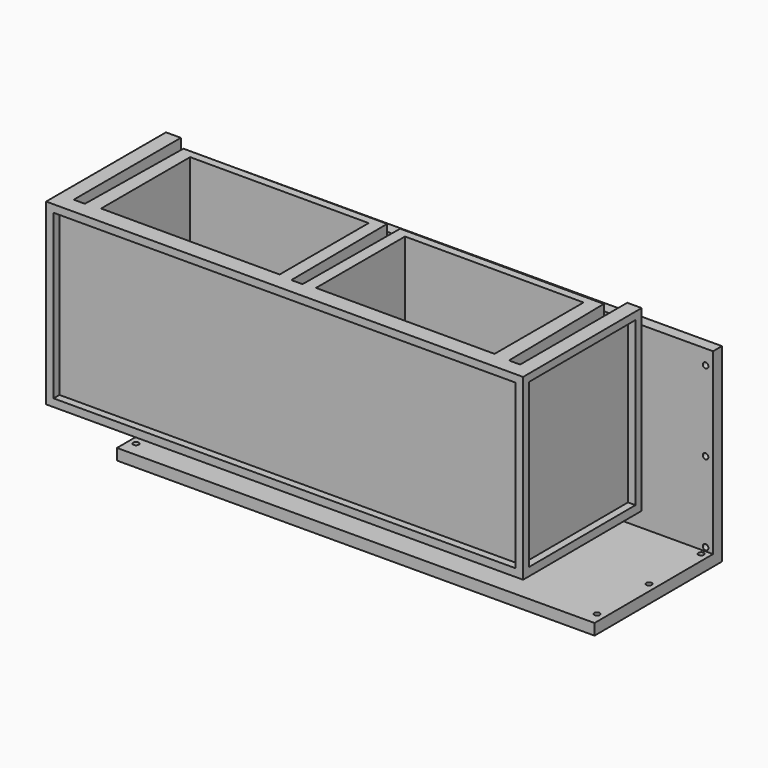
from build123d import *

# Parameters (mm, degrees)
F1_DEPTH  = 609.6
F2_W      = 609.6
F2_H      = 379.9170106649
F3_DEPTH  = 609.6
F4_W      = 609.6
F4_H      = 379.91796
F5_DEPTH  = 609.6
F7_DEPTH  = 609.6
F8_W      = 38.1
F8_H      = 609.6
F9_DEPTH  = 1625.6
F12_DEPTH = 25.4
F14_DEPTH = 25.4
F16_DEPTH = 25.4
F18_D     = 19.05
F18_DEPTH = 76.2
F18_TIP   = 5.7231973962
F20_D     = 19.05
F20_DEPTH = 76.2
F20_TIP   = 5.7231973962
F22_DEPTH = 25.4
F24_D     = 19.05
F24_DEPTH = 76.2
F24_TIP   = 5.7231973962
F26_DEPTH = 25.4


with BuildPart() as f1:
    # F0 (on Top) → F1 (new body)
    with BuildSketch(Plane.XY):
        Polygon((84.6492510451, -590.8656727771), (82.5916901231, -32.0694608688), (-1540.9447381875, -35.7017337799), (-1540.9447381875, -594.5017337799), align=None)
        Polygon((-1490.1507489549, -540.0694608688), (-1490.1507489549, -82.8694608688), (33.8492510451, -82.8694608688), (33.8492510451, -540.0694608688), (-4.2507489549, -540.0694608688), (-10.6066635132, -127.3194608688), (-705.9316635132, -127.3194608688), (-709.1066635132, -540.0694608688), (-747.2066635132, -540.0694608688), (-750.3757489549, -127.3194608688), (-1445.7007489549, -127.3194608688), (-1452.0507489549, -540.0694608688), align=None, mode=Mode.SUBTRACT)
    extrude(amount=-F1_DEPTH)

    # F2 (on face) → F3 (cut)
    with BuildSketch(Plane.XY):
        with Locations((-1096.4615680695, -344.4945290685)):
            Rectangle(F2_W, F2_H)
    extrude(amount=-F3_DEPTH, mode=Mode.SUBTRACT)

    # F4 (on face) → F5 (cut)
    with BuildSketch(Plane.XY):
        with Locations((-362.7812602043, -344.495003736)):
            Rectangle(F4_W, F4_H)
    extrude(amount=-F5_DEPTH, mode=Mode.SUBTRACT)

    # F6 (on face) → F7 (cut)
    with BuildSketch(Plane.XY):
        Polygon((-1540.9447381875, -35.7017337799), (-1540.9447381875, -82.8694608688), (82.778742384, -82.8694608688), (82.5916901231, -32.0694608688), align=None)
    extrude(amount=-F7_DEPTH, mode=Mode.SUBTRACT)

    # F11 (on face) → F12 (cut)
    with BuildSketch(Plane(origin=(1.3220406475, -591.0520556145, 0), x_dir=(0.9999974985, 0.0022367528, 0), z_dir=(0.0022367528, -0.9999974985, 0))):
        Polygon((-1465.8825397491, -25.4), (-1516.8706368785, -25.4), (-1516.8706368785, -290.197044611), (-1516.8706368785, -583.3304524422), (57.752572, -583.3304524422), (57.752572, -25.4), align=None)
    extrude(amount=-F12_DEPTH, mode=Mode.SUBTRACT)

    # F13 (on face) → F14 (cut)
    with BuildSketch(Plane(origin=(82.4724879938, 0.3036745146, 0), x_dir=(-0.0036821062, 0.999993221, 0), z_dir=(0.999993221, 0.0036821062, 0))):
        Polygon((-337.1735270288, -25.4), (-565.7733548417, -25.4), (-565.7733548417, -58.3401173353), (-565.7733548417, -581.6743373871), (-109.4463914633, -581.6743373871), (-109.4463914633, -25.4), align=None)
    extrude(amount=-F14_DEPTH, mode=Mode.SUBTRACT)

    # F15 (on face) → F16 (cut)
    with BuildSketch(Plane(origin=(-1540.9447381875, 0, 0), x_dir=(0, -1, 0), z_dir=(-1, 0, 0))):
        Polygon((338.6855973244, -25.2176970243), (108.2694608688, -25.2176970243), (108.2694608688, -290.197044611), (108.2694608688, -581.6743373871), (567.8874850273, -581.6743373871), (567.8874850273, -25.2176970243), align=None)
    extrude(amount=-F16_DEPTH, mode=Mode.SUBTRACT)


with BuildPart() as f9:
    # F8 (on face) → F9 (new body)
    with BuildSketch(Plane(origin=(82.4724879938, 0.3036745146, 0), x_dir=(-0.0036821062, 0.999993221, 0), z_dir=(0.999993221, 0.0036821062, 0))):
        with Locations((-19.05, -304.8)):
            Rectangle(F8_W, F8_H)
        Polygon((0, -609.6), (-38.1, -609.6), (-83.173699216, -609.6), (-546.1, -609.6), (-546.1, -647.7), (0, -647.7), align=None)
    extrude(amount=F9_DEPTH)


with BuildPart() as f9_1:
    # F10: moved
    add(f9.part.moved(Location((-1625.6, 254, -254))))

    # F18
    with Locations(Plane(origin=(-0.9572883561, 259.9821474887, 0), x_dir=(-0.999993221, -0.0036821062, 0), z_dir=(-0.0036821062, 0.999993221, 0))):
        with Locations((-58.0193219443, -304.8), (-58.0193219443, -577.85), (-58.0193219443, -850.9)):
            Hole(F18_D / 2, depth=F18_DEPTH)
            with Locations((0, 0, -(F18_DEPTH + F18_TIP / 2))):  # 118° drill point
                Cone(0, F18_D / 2, F18_TIP, mode=Mode.SUBTRACT)

    # F20
    with Locations(Plane(origin=(-0.9572883561, 259.9821474887, 0), x_dir=(-0.999993221, -0.0036821062, 0), z_dir=(-0.0036821062, 0.999993221, 0))):
        with Locations((333.1406780557, -850.9), (724.3006780557, -850.9), (1115.4606780557, -850.9), (1516.7806780557, -860.425), (1516.7806780557, -577.85), (1516.7806780557, -304.8)):
            Hole(F20_D / 2, depth=F20_DEPTH)
            with Locations((0, 0, -(F20_DEPTH + F20_TIP / 2))):  # 118° drill point
                Cone(0, F20_D / 2, F20_TIP, mode=Mode.SUBTRACT)

    # F21 (on face) → F22 (cut)
    with BuildSketch(Plane(origin=(-0.9572883561, 259.9821474887, 0), x_dir=(-0.999993221, -0.0036821062, 0), z_dir=(-0.0036821062, 0.999993221, 0))):
        Polygon((-32.6193219443, -286.8848145008), (-32.6193219443, -374.6592402458), (-32.6193219443, -825.1241445541), (1490.1075363159, -825.1241445541), (1490.1075363159, -286.8848145008), align=None)
    extrude(amount=-F22_DEPTH, mode=Mode.SUBTRACT)

    # F24
    with Locations(Plane(origin=(0, 0, -901.7), x_dir=(1, 0, 0), z_dir=(0, 0, -1))):
        with Locations((-1516.7224572913, 240.9926234866), (-1516.7224572913, 18.752777536), (-1516.7224572913, -203.4870684147), (-1110.3224572913, -203.4870684147), (-349.3381875374, -203.4870684147), (-729.8303224143, -203.4870684147), (57.0618124626, -203.4870684147), (57.0618124626, 18.752777536), (57.0618124626, 240.9926234866)):
            Hole(F24_D / 2, depth=F24_DEPTH)
            with Locations((0, 0, -(F24_DEPTH + F24_TIP / 2))):  # 118° drill point
                Cone(0, F24_D / 2, F24_TIP, mode=Mode.SUBTRACT)

    # F25 (on face) → F26 (cut)
    with BuildSketch(Plane(origin=(0, 0, -901.7), x_dir=(1, 0, 0), z_dir=(0, 0, -1))):
        Polygon((-1490.9147545666, 212.5998076), (-1490.9147545666, 129.2820857336), (-1490.9147545666, -167.2963202), (32.9103753676, -167.2963202), (32.9103753676, 78.9847744763), (32.9103753676, 212.5998076), (-728.322223784, 212.5998076), align=None)
    extrude(amount=-F26_DEPTH, mode=Mode.SUBTRACT)


solid = Compound([f1.part, f9_1.part])
